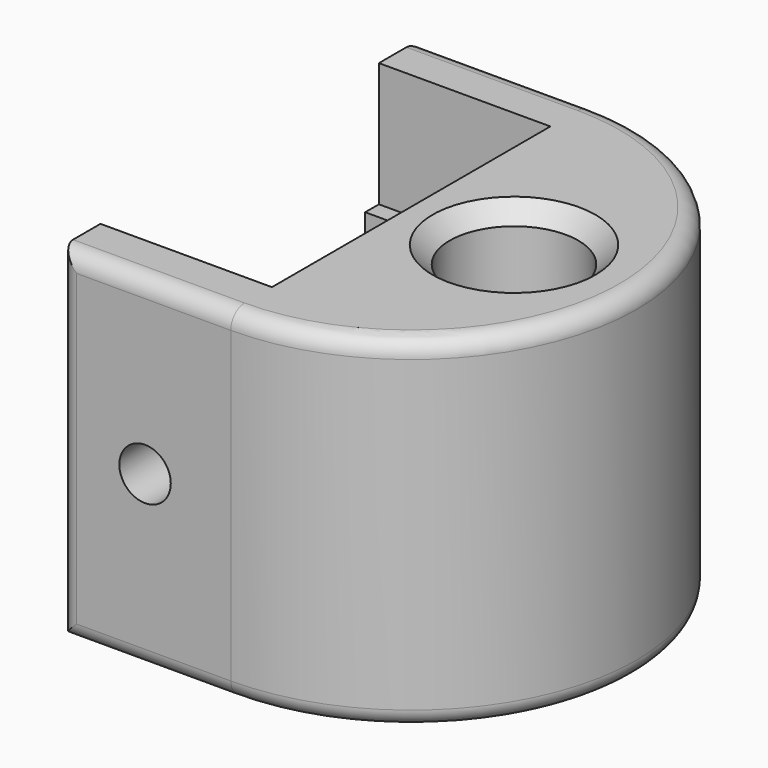
from build123d import *

# Parameters (mm, degrees)
F0_R     = 3.75
F1_DEPTH = 20
F2_W     = 1
F2_H     = 5.5
F3_DEPTH = 10
F4_R     = 1.5
F5_DEPTH = 26.301
F6_SIZE  = 1
F7_R     = 1


with BuildPart() as f1:
    # F0 (on Top) → F1 (new body)
    with BuildSketch(Plane.XY):
        with BuildLine():
            Line((0, 3), (0, 0))
            Line((0, 0), (10, 0))
            ThreePointArc((10, 0), (23.15, 13.15), (10, 26.3))
            Line((10, 26.3), (0, 26.3))
            Line((0, 26.3), (0, 23.3))
            Line((0, 23.3), (10, 23.3))
            Line((10, 23.3), (10, 3))
            Line((10, 3), (0, 3))
        make_face()
        with Locations((16, 13.15)):
            Circle(F0_R, mode=Mode.SUBTRACT)
    extrude(amount=F1_DEPTH)

    # F2 (on face) → F3 (join, through all)
    with BuildSketch(Plane(origin=(10, 0, 0), x_dir=(0, -1, 0), z_dir=(-1, 0, 0))):
        with Locations((-22.8, 10)):
            Rectangle(F2_W, F2_H)
        with Locations((-3.5, 10)):
            Rectangle(F2_W, F2_H)
    extrude(amount=F3_DEPTH)

    # F4 (on face) → F5 (cut, through all)
    with BuildSketch(Plane.XZ):
        with Locations((5, 10)):
            Circle(F4_R)
    extrude(amount=-F5_DEPTH, mode=Mode.SUBTRACT)

    # F6
    f6_edges = [f1.edges().sort_by_distance(p)[0] for p in [
        (12.25, 13.15, 20),
        (12.25, 13.15, 0),
    ]]
    chamfer(f6_edges, length=F6_SIZE)

    # F7
    f7_edges = [f1.edges().sort_by_distance(p)[0] for p in [
        (23.15, 13.15, 20),
        (23.15, 13.15, 0),
        (0, 0, 10),
        (0, 26.3, 10),
    ]]
    fillet(f7_edges, radius=F7_R)


solid = f1.part
